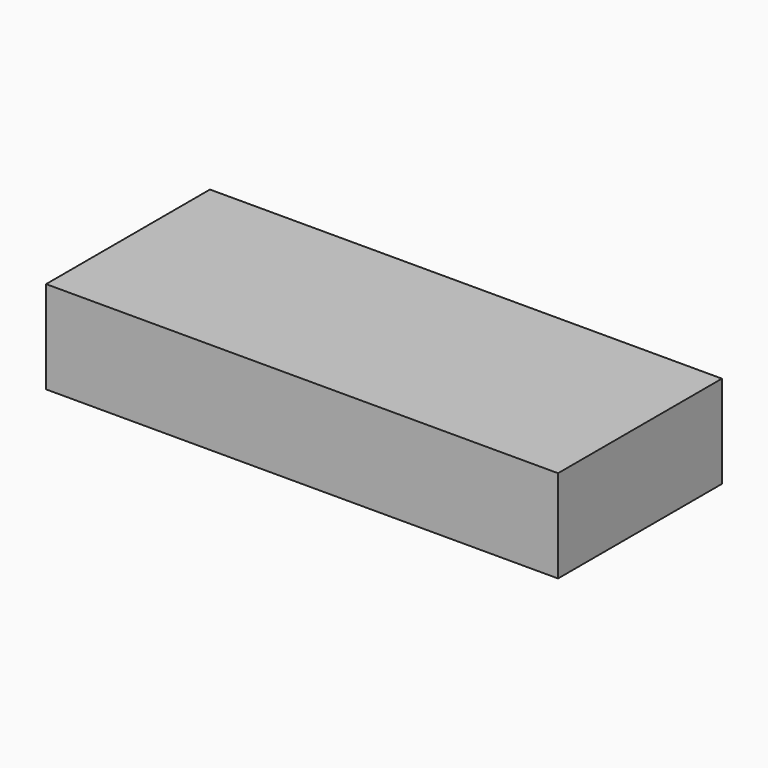
from build123d import *

# Parameters (mm, degrees)
F0_W     = 35.128668
F0_H     = 74.74953
F0_H_2   = 37.517414
F1_DEPTH = 50.8


with BuildPart() as f1:
    # F0 (on Top) → F1 (new body)
    with BuildSketch(Plane.XY):
        with Locations((-122.734718, -18.758707)):
            Rectangle(F0_W, F0_H)
        Polygon((-105.170384, 18.616058), (-105.170384, -56.133472), (140.299052, -56.133472), (140.299052, 56.133472), (-105.170384, 56.133472), align=None)
        with Locations((-122.734718, 37.374765)):
            Rectangle(F0_W, F0_H_2)
    extrude(amount=F1_DEPTH)


solid = f1.part
